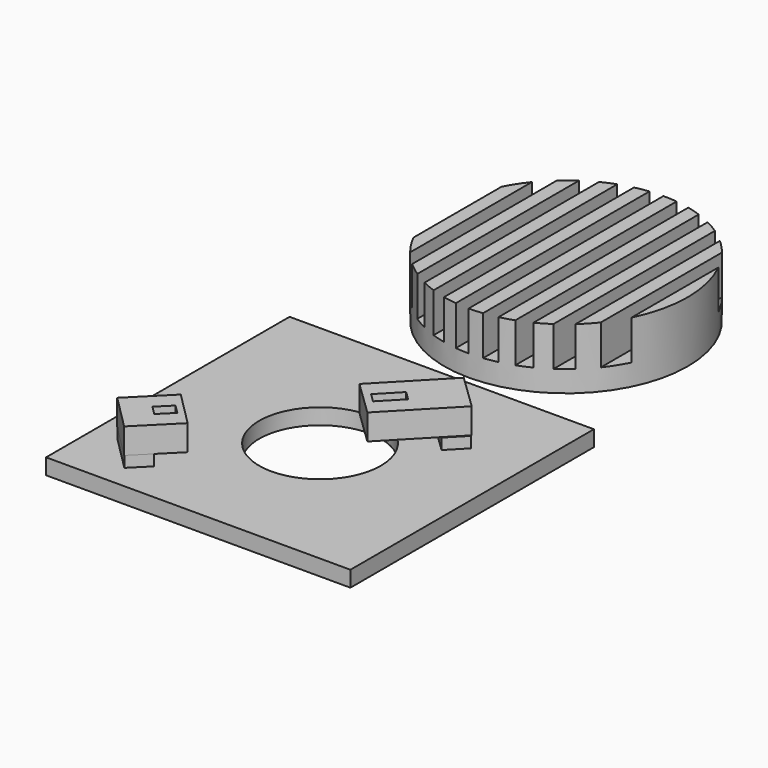
from build123d import *

# Parameters (mm, degrees)
SKETCH005_AS_DRAWN_W                      = 2.018315
SKETCH005_AS_DRAWN_H                      = 4.540272
EXTRUDE002_DEPTH                          = 4.5
EXTRUDE002_ONTO_SKETCH005_PLACEMENT_ANGLE = 136
BOX004_W                                  = 8
BOX004_H                                  = 13.5
BOX004_DEPTH                              = 4.2
BOX004_PLACEMENT_ANGLE                    = 136
BOX002_W                                  = 8
BOX002_H                                  = 3.8
BOX002_DEPTH                              = 1.8
BOX002_PLACEMENT_ANGLE                    = 136
SKETCH006_AS_DRAWN_W                      = 2.0548
SKETCH006_AS_DRAWN_H                      = 2.98173
EXTRUDE003_DEPTH                          = 4.5
EXTRUDE003_ONTO_SKETCH006_PLACEMENT_ANGLE = 135
BOX003_W                                  = 8
BOX003_H                                  = 8.2
BOX003_DEPTH                              = 4.2
BOX003_PLACEMENT_ANGLE                    = 135
BOX001_W                                  = 8
BOX001_H                                  = 3.8
BOX001_DEPTH                              = 1.8
BOX001_PLACEMENT_ANGLE                    = 135
CYLINDER_R                                = 10
CYLINDER_DEPTH                            = 2.6
BOX_W                                     = 50
BOX_H                                     = 50
BOX_DEPTH                                 = 2.6
SKETCH001_W                               = 2.23349
SKETCH001_H                               = 39.923653
SKETCH001_W_2                             = 2.233494
SKETCH001_H_2                             = 40.016715
SKETCH001_W_3                             = 2.204327
SKETCH001_H_3                             = 40.844541
SKETCH001_W_4                             = 2.233492
SKETCH001_H_4                             = 40.109777
SKETCH001_W_5                             = 2.233491
EXTRUDE_DEPTH                             = 6.5
CYLINDER001_R                             = 20
CYLINDER001_DEPTH                         = 10
CUT001_PLACEMENT_ANGLE                    = 180
SKETCH002_R                               = 3
SKETCH002_R_2                             = 2
EXTRUDE001_DEPTH                          = 3


with BuildPart() as extrude002:
    # Sketch005 as drawn → Extrude002 (new)
    with BuildSketch(Plane.XY):
        with Locations((3.98714, 10.110961)):
            Rectangle(SKETCH005_AS_DRAWN_W, SKETCH005_AS_DRAWN_H)
    extrude(amount=EXTRUDE002_DEPTH)


with BuildPart() as extrude002_1:
    # Extrude002 onto Sketch005 placement: moved
    add(extrude002.part.moved(Location((47.02, 42.01, 12.52))).rotate(Axis((47.02, 42.01, 12.52), (0, 0, 1)), EXTRUDE002_ONTO_SKETCH005_PLACEMENT_ANGLE))


with BuildPart() as extrude002_2:
    # Extrude002 placement: moved
    add(extrude002_1.part.moved(Location((0, 0, -4.5))))


with BuildPart() as cut003:
    # Box004 → Box004 (new body)
    with BuildSketch(Plane.XY):
        with Locations((4, 6.75)):
            Rectangle(BOX004_W, BOX004_H)
    extrude(amount=BOX004_DEPTH)


with BuildPart() as cut003_1:
    # Box004 placement: moved
    add(cut003.part.moved(Location((47.02, 42.01, 8.32))).rotate(Axis((47.02, 42.01, 8.32), (0, 0, 1)), BOX004_PLACEMENT_ANGLE))

    # Cut003: cut Extrude002
    add(extrude002_2.part, mode=Mode.SUBTRACT)


with BuildPart() as cut003_2:
    # Cut003 placement: moved
    add(cut003_1.part.moved(Location((-5.975619, -5.901068, -3.867182))))


with BuildPart() as fusion:
    # Box002 → Box002 (new body)
    with BuildSketch(Plane.XY):
        with Locations((4, 1.9)):
            Rectangle(BOX002_W, BOX002_H)
    extrude(amount=BOX002_DEPTH)


with BuildPart() as fusion_1:
    # Box002 placement: moved
    add(fusion.part.moved(Location((41, 36, 2.6))).rotate(Axis((41, 36, 2.6), (0, 0, 1)), BOX002_PLACEMENT_ANGLE))

    # Fusion: union Cut003
    add(cut003_2.part)


with BuildPart() as extrude003:
    # Sketch006 as drawn → Extrude003 (new)
    with BuildSketch(Plane.XY):
        with Locations((4.015499, 2.494238)):
            Rectangle(SKETCH006_AS_DRAWN_W, SKETCH006_AS_DRAWN_H)
    extrude(amount=EXTRUDE003_DEPTH)


with BuildPart() as extrude003_1:
    # Extrude003 onto Sketch006 placement: moved
    add(extrude003.part.moved(Location((15.55, 9.66, 12.99))).rotate(Axis((15.55, 9.66, 12.99), (0, 0, 1)), EXTRUDE003_ONTO_SKETCH006_PLACEMENT_ANGLE))


with BuildPart() as extrude003_2:
    # Extrude003 placement: moved
    add(extrude003_1.part.moved(Location((0, 0, -4.5))))


with BuildPart() as cut004:
    # Box003 → Box003 (new body)
    with BuildSketch(Plane.XY):
        with Locations((4, 4.1)):
            Rectangle(BOX003_W, BOX003_H)
    extrude(amount=BOX003_DEPTH)


with BuildPart() as cut004_1:
    # Box003 placement: moved
    add(cut004.part.moved(Location((15.55, 9.66, 8.79))).rotate(Axis((15.55, 9.66, 8.79), (0, 0, 1)), BOX003_PLACEMENT_ANGLE))

    # Cut004: cut Extrude003
    add(extrude003_2.part, mode=Mode.SUBTRACT)


with BuildPart() as cut004_2:
    # Cut004 placement: moved
    add(cut004_1.part.moved(Location((-0.080851, 0.078243, -4.376037))))


with BuildPart() as fusion001:
    # Box001 → Box001 (new body)
    with BuildSketch(Plane.XY):
        with Locations((4, 1.9)):
            Rectangle(BOX001_W, BOX001_H)
    extrude(amount=BOX001_DEPTH)


with BuildPart() as fusion001_1:
    # Box001 placement: moved
    add(fusion001.part.moved(Location((12.36, 6.67, 2.6))).rotate(Axis((12.36, 6.67, 2.6), (0, 0, 1)), BOX001_PLACEMENT_ANGLE))

    # Fusion001: union Cut004
    add(cut004_2.part)


with BuildPart() as cylinder:
    # Cylinder → Cylinder (new body)
    with BuildSketch(Plane(origin=(25, 25, 0), x_dir=(1, 0, 0), z_dir=(0, 0, 1))):
        Circle(CYLINDER_R)
    extrude(amount=CYLINDER_DEPTH)


with BuildPart() as fusion002:
    # Box → Box (new body)
    with BuildSketch(Plane.XY):
        with Locations((25, 25)):
            Rectangle(BOX_W, BOX_H)
    extrude(amount=BOX_DEPTH)

    # Cut: cut Cylinder
    add(cylinder.part, mode=Mode.SUBTRACT)

    # Fusion002: union Fusion, Fusion001
    add(fusion_1.part)
    add(fusion001_1.part)


with BuildPart() as extrude_body:
    # Sketch001 (on Cylinder) → Extrude (new body)
    with BuildSketch(Plane(origin=(25.88, -24.43, 1.58), x_dir=(1, 0, 0), z_dir=(0, 0, 1))):
        with Locations((3.379402, 0.007826)):
            Rectangle(SKETCH001_W, SKETCH001_H)
        with Locations((7.846387, 0.007826)):
            Rectangle(SKETCH001_W_2, SKETCH001_H)
        with Locations((12.313369, 0.054358)):
            Rectangle(SKETCH001_W, SKETCH001_H_2)
        with Locations((16.780351, 0.054358)):
            Rectangle(SKETCH001_W_2, SKETCH001_H_2)
        with Locations((-1.102163, -0.266493)):
            Rectangle(SKETCH001_W_3, SKETCH001_H_3)
        with Locations((-5.554563, 0.100888)):
            Rectangle(SKETCH001_W_4, SKETCH001_H_4)
        with Locations((-10.021547, 0.054358)):
            Rectangle(SKETCH001_W_4, SKETCH001_H_2)
        with Locations((-14.48853, 0.054358)):
            Rectangle(SKETCH001_W_4, SKETCH001_H_2)
        with Locations((-18.955512, 0.100888)):
            Rectangle(SKETCH001_W_5, SKETCH001_H_4)
    extrude(amount=EXTRUDE_DEPTH)


with BuildPart() as cut001:
    # Cylinder001 → Cylinder001 (new body)
    with BuildSketch(Plane(origin=(25.88, -24.43, 1.58), x_dir=(1, 0, 0), z_dir=(0, 0, 1))):
        Circle(CYLINDER001_R)
    extrude(amount=CYLINDER001_DEPTH)

    # Cut001: cut Extrude body
    add(extrude_body.part, mode=Mode.SUBTRACT)


with BuildPart() as cut001_1:
    # Cut001 placement: moved
    add(cut001.part.moved(Location((0, 50, 12))).rotate(Axis((0, 50, 12), (1, 0, 0)), CUT001_PLACEMENT_ANGLE))


with BuildPart() as fusion003:
    # Sketch002 → Extrude001 (new body)
    with BuildSketch(Plane.XY):
        with Locations((25.84182, 74.524612)):
            Circle(SKETCH002_R)
        with Locations((25.84182, 74.524612)):
            Circle(SKETCH002_R_2, mode=Mode.SUBTRACT)
    extrude(amount=EXTRUDE001_DEPTH)


with BuildPart() as fusion003_1:
    # Extrude001 placement: moved
    add(fusion003.part.moved(Location((0, 0, -2.75))))

    # Fusion003: union Cut001
    add(cut001_1.part)


solid = Compound([fusion002.part, fusion003_1.part])
